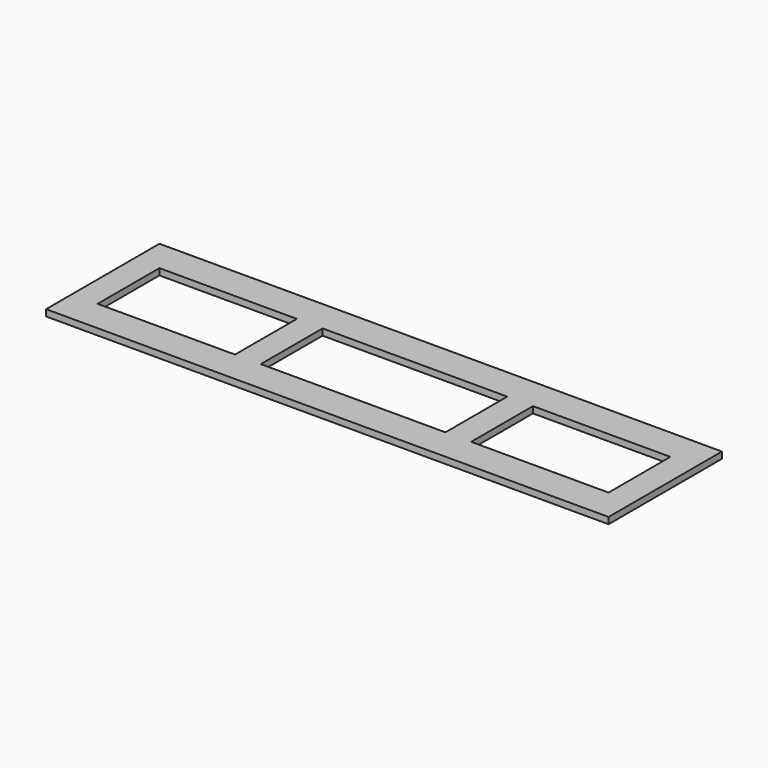
from build123d import *

# Parameters (mm, degrees)
F0_W     = 1663.7
F0_H     = 419.1
F0_W_2   = 406.4
F0_H_2   = 228.6
F0_W_3   = 546.1
F1_DEPTH = 19.05


with BuildPart() as f1:
    # F0 (on Top) → F1 (new body)
    with BuildSketch(Plane.XY):
        Rectangle(F0_W, F0_H)
        with Locations((-552.45, 0)):
            Rectangle(F0_W_2, F0_H_2, mode=Mode.SUBTRACT)
        Rectangle(F0_W_3, F0_H_2, mode=Mode.SUBTRACT)
        with Locations((552.45, 0)):
            Rectangle(F0_W_2, F0_H_2, mode=Mode.SUBTRACT)
    extrude(amount=F1_DEPTH)


solid = f1.part
